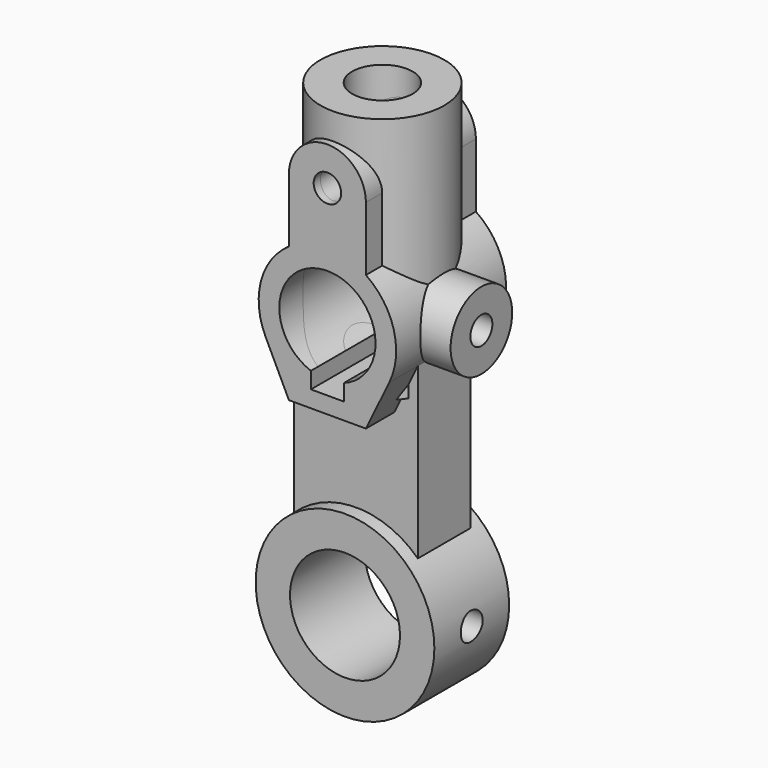
from build123d import *

# Parameters (mm, degrees)
F0_R      = 32.5
F0_R_2    = 20
F1_DEPTH  = 17
F2_R      = 5
F3_DEPTH  = 100
F4_W      = 45
F4_H      = 96
F5_DEPTH  = 12
F6_DEPTH  = 25
F7_DEPTH  = 25
F9_R      = 5
F10_DEPTH = 25
F11_DEPTH = 25
F12_R     = 14
F12_R_2   = 5
F13_DEPTH = 36
F14_DEPTH = 25
F15_R     = 22.5
F15_R_2   = 11
F16_DEPTH = 90
F17_DEPTH = 25
F18_R     = 11
F19_DEPTH = 25
F20_R     = 5
F21_DEPTH = 50
F22_R     = 5
F23_DEPTH = 50


with BuildPart() as f1:
    # F0 (on Front) → F1 (new body, symmetric)
    with BuildSketch(Plane.XZ):
        Circle(F0_R)
        Circle(F0_R_2, mode=Mode.SUBTRACT)
    extrude(amount=F1_DEPTH, both=True)

    # F2 (on Right) → F3 (cut)
    with BuildSketch(Plane.YZ):
        Circle(F2_R)
    extrude(amount=F3_DEPTH, mode=Mode.SUBTRACT)

    # F4 (on Front) → F5 (join, symmetric)
    with BuildSketch(Plane.XZ):
        with Locations((0, 48)):
            Rectangle(F4_W, F4_H)
    extrude(amount=F5_DEPTH, both=True)

    # F6 (cut): a face of the model
    f6_faces = [f1.faces().sort_by_distance(p)[0] for p in [
        (22.5, 0, 2.1220659079),
    ]]
    extrude(f6_faces, amount=-F6_DEPTH, mode=Mode.SUBTRACT)

    # F7 (cut): a face of the model
    f7_faces = [f1.faces().sort_by_distance(p)[0] for p in [
        (0, -12, 8.4882636316),
    ]]
    extrude(f7_faces, amount=-F7_DEPTH, mode=Mode.SUBTRACT)

    # F9 (on Front) → F10 (join, symmetric)
    with BuildSketch(Plane.XZ):
        with BuildLine():
            Line((-14, 140), (-14, 116.7123151772))
            ThreePointArc((-14, 116.7123151772), (-24.1423613371, 102.4920250361), (-22.5, 85.1027526411))
            Line((-22.5, 85.1027526411), (-14, 67.552449))
            Line((-14, 67.552449), (14, 67.552449))
            Line((14, 67.552449), (22.5, 85.1027526411))
            ThreePointArc((22.5, 85.1027526411), (24.1423613371, 102.4920250361), (14, 116.7123151772))
            Line((14, 116.7123151772), (14, 140))
            ThreePointArc((14, 140), (0, 154), (-14, 140))
        make_face()
        with Locations((0, 140)):
            Circle(F9_R, mode=Mode.SUBTRACT)
    extrude(amount=F10_DEPTH, both=True)

    # F8 (on Front) → F11 (cut, symmetric)
    with BuildSketch(Plane.XZ):
        with BuildLine():
            Line((6, 73.6), (6, 79.5607177772))
            ThreePointArc((6, 79.5607177772), (0, 113.5), (-6, 79.5607177772))
            Line((-6, 79.5607177772), (-6, 73.6))
            Line((-6, 73.6), (6, 73.6))
        make_face()
    extrude(amount=F11_DEPTH, both=True, mode=Mode.SUBTRACT)

    # F12 (on Right) → F13 (join)
    with BuildSketch(Plane.YZ):
        with Locations((0, 96)):
            Circle(F12_R)
        with Locations((0, 96)):
            Circle(F12_R_2, mode=Mode.SUBTRACT)
    extrude(amount=F13_DEPTH)

    # F8 (on Front) → F14 (cut, symmetric)
    with BuildSketch(Plane.XZ):
        with BuildLine():
            Line((6, 73.6), (6, 79.5607177772))
            ThreePointArc((6, 79.5607177772), (0, 113.5), (-6, 79.5607177772))
            Line((-6, 79.5607177772), (-6, 73.6))
            Line((-6, 73.6), (6, 73.6))
        make_face()
    extrude(amount=F14_DEPTH, both=True, mode=Mode.SUBTRACT)

    # F15 (on face) → F16 (join)
    with BuildSketch(Plane.XY.offset(73.6)):
        Circle(F15_R)
        Circle(F15_R_2, mode=Mode.SUBTRACT)
    extrude(amount=F16_DEPTH)

    # F8 (on Front) → F17 (cut, symmetric)
    with BuildSketch(Plane.XZ):
        with BuildLine():
            Line((6, 73.6), (6, 79.5607177772))
            ThreePointArc((6, 79.5607177772), (0, 113.5), (-6, 79.5607177772))
            Line((-6, 79.5607177772), (-6, 73.6))
            Line((-6, 73.6), (6, 73.6))
        make_face()
    extrude(amount=F17_DEPTH, both=True, mode=Mode.SUBTRACT)

    # F18 (on face) → F19 (cut)
    with BuildSketch(Plane.XY.offset(163.6)):
        Circle(F18_R)
    extrude(amount=-F19_DEPTH, mode=Mode.SUBTRACT)

    # F20 (on face) → F21 (cut)
    with BuildSketch(Plane.XZ.offset(25)):
        with Locations((0, 140)):
            Circle(F20_R)
    extrude(amount=-F21_DEPTH, mode=Mode.SUBTRACT)

    # F22 (on Right) → F23 (cut)
    with BuildSketch(Plane.YZ):
        with Locations((0, 96)):
            Circle(F22_R)
    extrude(amount=F23_DEPTH, mode=Mode.SUBTRACT)


solid = f1.part
